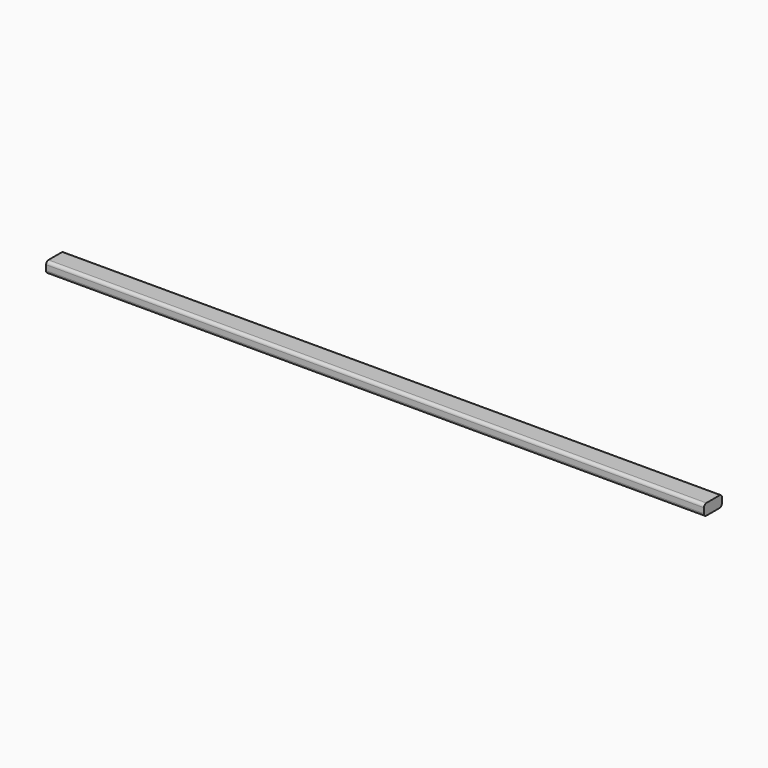
from build123d import *

# Parameters (mm, degrees)
F0_W     = 38.1
F0_H     = 19.05
F1_DEPTH = 558.8
F2_R     = 5.08


with BuildPart() as f1:
    # F0 (on Right) → F1 (new body, symmetric)
    with BuildSketch(Plane.YZ):
        Rectangle(F0_W, F0_H)
    extrude(amount=F1_DEPTH, both=True)

    # F2
    f2_edges = [f1.edges().sort_by_distance(p)[0] for p in [
        (0, -19.05, 9.525),
        (0, -19.05, -9.525),
        (0, 19.05, 9.525),
        (0, 19.05, -9.525),
    ]]
    fillet(f2_edges, radius=F2_R)


solid = f1.part
